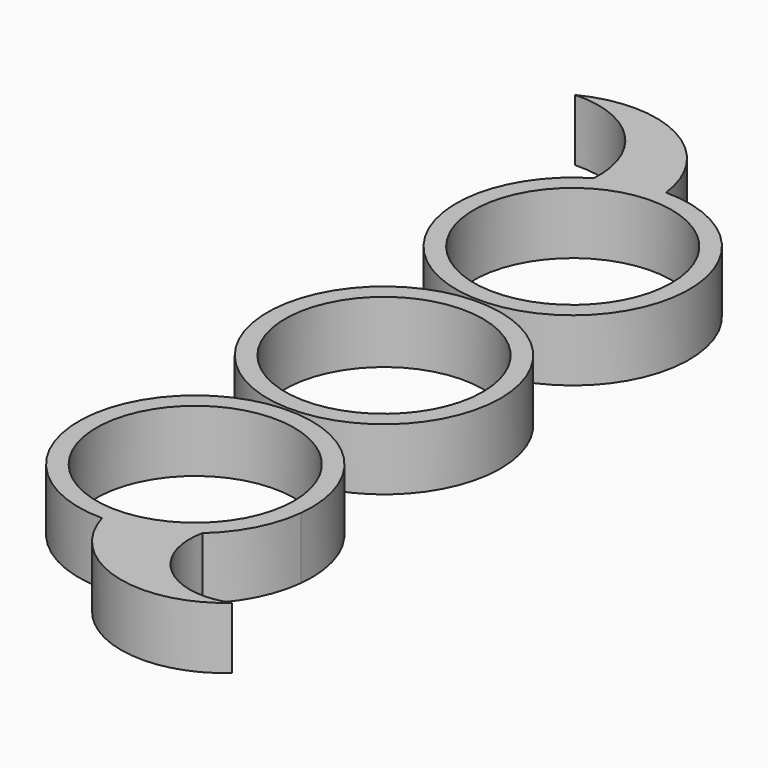
from build123d import *

# Parameters (mm, degrees)
F0_R     = 11.2
F1_DEPTH = 7


with BuildPart() as f1:
    # F0 (on Top) → F1 (new body)
    with BuildSketch(Plane.XY):
        with BuildLine():
            ThreePointArc((-13.2, 0), (0, -13.2), (13.2, 0))
            ThreePointArc((13.2, 0), (0, 13.2), (-13.2, 0))
        make_face()
        Circle(F0_R, mode=Mode.SUBTRACT)
        with BuildLine():
            ThreePointArc((-6.701514, 38.090992), (-11.573414, 33.06659), (-13.19195, 26.257747))
            ThreePointArc((-13.19195, 26.257747), (9.495372, 17.549269), (0, 39.91867))
            ThreePointArc((0, 39.91867), (-6.483409, 49.387229), (-17.958449, 49.495235))
            ThreePointArc((-17.958449, 49.495235), (-9.786595, 46.303647), (-6.701514, 38.090992))
        make_face()
        with Locations((0, 26.71867)):
            Circle(F0_R, mode=Mode.SUBTRACT)
        with BuildLine():
            ThreePointArc((8.724887, -36.624039), (11.72053, -32.79067), (13.124067, -28.132485))
            ThreePointArc((13.124067, -28.132485), (-8.819797, -16.897713), (0, -39.91867))
            ThreePointArc((0, -39.91867), (8.05056, -47.934363), (19.126479, -45.407135))
            ThreePointArc((19.126479, -45.407135), (11.30049, -44.124535), (8.724887, -36.624039))
        make_face()
        with Locations((0, -26.71867)):
            Circle(F0_R, mode=Mode.SUBTRACT)
    extrude(amount=F1_DEPTH)


solid = f1.part
